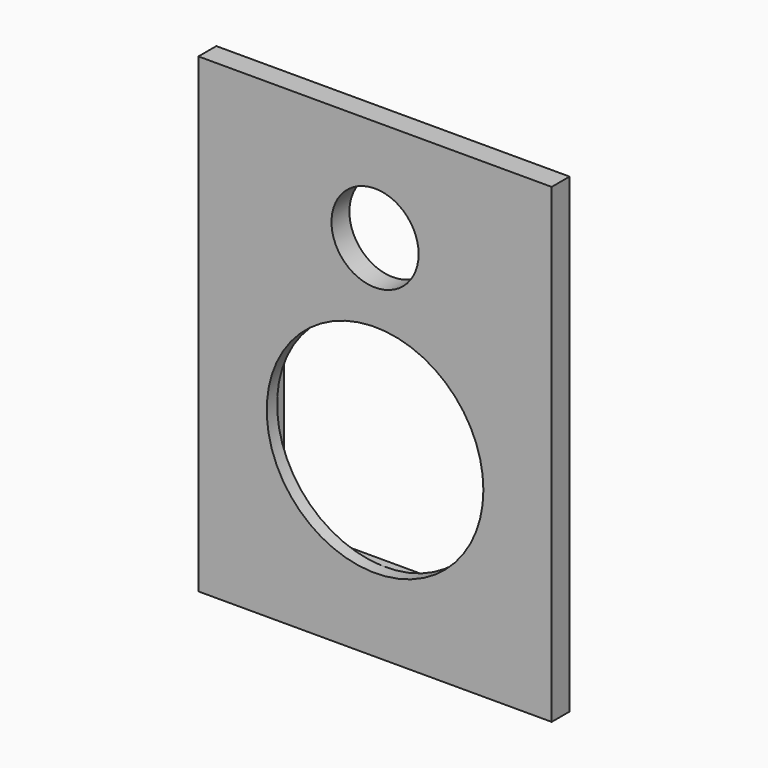
from build123d import *

# Parameters (mm, degrees)
F0_W     = 300
F0_H     = 400
F1_DEPTH = 19
F2_R     = 37
F2_R_2   = 92
F3_DEPTH = 19
F5_DEPTH = 8


with BuildPart() as f1:
    # F0 (on Front) → F1 (new body)
    with BuildSketch(Plane.XZ):
        with Locations((-10.006191, 59.673727)):
            Rectangle(F0_W, F0_H)
    extrude(amount=F1_DEPTH)

    # F2 (on face) → F3 (cut)
    with BuildSketch(Plane.XZ.offset(19)):
        with Locations((-10.006191, 172.673727)):
            Circle(F2_R)
        with Locations((-10.006191, 14.173727)):
            Circle(F2_R_2)
    extrude(amount=-F3_DEPTH, mode=Mode.SUBTRACT)

    # F4 (on face) → F5 (cut)
    with BuildSketch(Plane(origin=(0, 0, 0), x_dir=(-1, 0, 0), z_dir=(0, 1, 0))):
        Polygon((119.506191, -88.326273), (-129.493809, -88.326273), (-129.493809, -118.326273), (149.506191, -118.326273), (149.506191, 146.673727), (87.006191, 146.673727), (87.006191, 179.673727), (149.506191, 179.673727), (149.506191, 249.673727), (-129.493809, 249.673727), (-129.493809, 179.673727), (-66.993809, 179.673727), (-66.993809, 146.673727), (-129.493809, 146.673727), (-129.493809, -78.326273), (102.506191, -78.326273), (102.506191, 106.673727), (-82.493809, 106.673727), (-82.493809, -48.326273), (-99.493809, -48.326273), (-99.493809, 116.673727), (-36.993809, 116.673727), (-36.993809, 209.673727), (-99.493809, 209.673727), (-99.493809, 219.673727), (119.506191, 219.673727), (119.506191, 209.673727), (57.006191, 209.673727), (57.006191, 116.673727), (119.506191, 116.673727), align=None)
    extrude(amount=-F5_DEPTH, mode=Mode.SUBTRACT)


solid = f1.part
